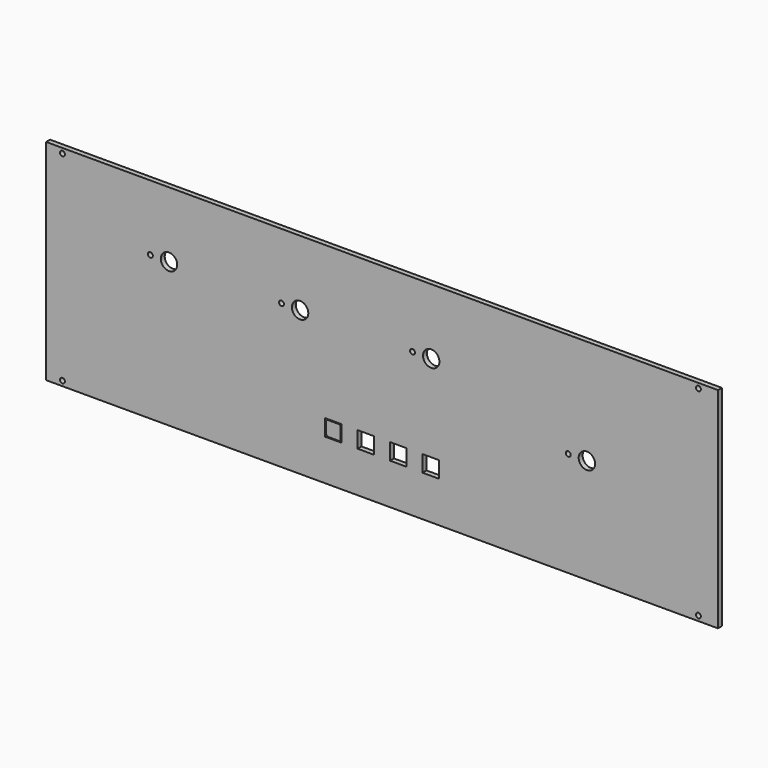
from build123d import *

# Parameters (mm, degrees)
F0_W      = 410
F0_H      = 128
F1_DEPTH  = 3
F2_D      = 3
F4_D      = 10
F3_W      = 10
F3_H      = 5
F5_DEPTH  = 3
F3_R      = 1.5
F6_DEPTH  = 3
F7_W      = 9
F7_H      = 9
F8_DEPTH  = 13
F9_R      = 1.5
F10_W     = 4
F10_H     = 4
F11_DEPTH = 8


with BuildPart() as f1:
    # F0 (on Front) → F1 (new body)
    with BuildSketch(Plane.XZ):
        with Locations((83.7860082106, 4.6871258765)):
            Rectangle(F0_W, F0_H)
    extrude(amount=F1_DEPTH)

    # F2 (through all)
    with Locations(Plane(origin=(0, 0, 0), x_dir=(1, 0, 0), z_dir=(0, 1, 0))):
        with Locations((-111.2139917894, -65.6871258765), (276.8249472189, -65.6871258765), (276.8249472189, 56.3128741235), (-111.2139917894, 56.3128741235)):
            Hole(F2_D / 2)

    # F4 (through all)
    with Locations(Plane.XZ.offset(3)):
        with Locations((-46.2139917894, 28.6871258765), (33.7860082106, 28.6871258765), (113.7860082106, 28.6871258765), (208.7860082106, 4.6871258765)):
            Hole(F4_D / 2)

    # F3 (on face) → F5 (cut, through all)
    with BuildSketch(Plane.XZ.offset(3)):
        with Locations((54.0860082106, -31.8128741235)):
            Rectangle(F3_W, F3_H)
        with Locations((54.0860082106, -26.8128741235)):
            Rectangle(F3_W, F3_H)
        Polygon((73.8860082106, -29.3128741235), (78.8860082106, -29.3128741235), (78.8860082106, -24.3128741235), (68.8860082106, -24.3128741235), (68.8860082106, -29.3128741235), align=None)
        Polygon((78.8860082106, -34.3128741235), (78.8860082106, -29.3128741235), (73.8860082106, -29.3128741235), (68.8860082106, -29.3128741235), (68.8860082106, -34.3128741235), align=None)
        Polygon((93.6860082106, -29.3128741235), (88.6860082106, -29.3128741235), (88.6860082106, -34.3128741235), (98.6860082106, -34.3128741235), (98.6860082106, -29.3128741235), align=None)
        Polygon((88.6860082106, -24.3128741235), (88.6860082106, -29.3128741235), (93.6860082106, -29.3128741235), (98.6860082106, -29.3128741235), (98.6860082106, -24.3128741235), align=None)
        with Locations((113.4860082106, -26.8128741235)):
            Rectangle(F3_W, F3_H)
        with Locations((113.4860082106, -31.8128741235)):
            Rectangle(F3_W, F3_H)
    extrude(amount=-F5_DEPTH, mode=Mode.SUBTRACT)

    # F3 (on face) → F6 (cut, through all)
    with BuildSketch(Plane.XZ.offset(3)):
        with Locations((-57.5889917894, 28.6871258765)):
            Circle(F3_R)
        with Locations((22.4110082106, 28.6871258765)):
            Circle(F3_R)
        with Locations((102.4110082106, 28.6871258765)):
            Circle(F3_R)
        with Locations((197.4110082106, 4.6871258765)):
            Circle(F3_R)
    extrude(amount=-F6_DEPTH, mode=Mode.SUBTRACT)


with BuildPart() as f8:
    # F7 (on face) → F8 (new body)
    with BuildSketch(Plane.XZ.offset(3)):
        with Locations((54.0860082106, -29.3128741235)):
            Rectangle(F7_W, F7_H)
    extrude(amount=-F8_DEPTH)

    # F9
    f9_edges = [f8.edges().sort_by_distance(p)[0] for p in [
        (58.586008, 3.5, -24.812874),
        (49.586008, 3.5, -24.812874),
        (58.586008, 3.5, -33.812874),
        (49.586008, 3.5, -33.812874),
    ]]
    fillet(f9_edges, radius=F9_R)

    # F10 (on face) → F11 (cut)
    with BuildSketch(Plane(origin=(0, 10, 0), x_dir=(-1, 0, 0), z_dir=(0, 1, 0))):
        with Locations((-54.0860082106, -29.3128741235)):
            Rectangle(F10_W, F10_H)
    extrude(amount=-F11_DEPTH, mode=Mode.SUBTRACT)


solid = Compound([f1.part, f8.part])
